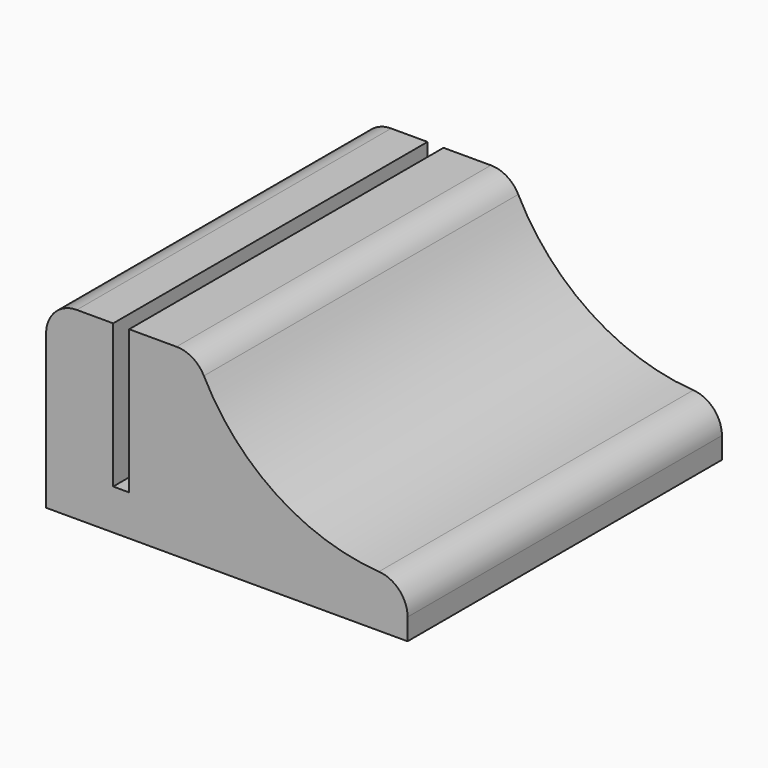
from build123d import *

# Parameters (mm, degrees)
F1_DEPTH = 64
F2_W     = 2.6
F2_H     = 64
F3_DEPTH = 23.4
F4_R     = 5


with BuildPart() as f1:
    # F0 (on Front) → F1 (new body)
    with BuildSketch(Plane.XZ):
        with BuildLine():
            Line((24.4545675814, -5.1988300681), (0, -5.1988300681))
            Line((0, -5.1988300681), (0, -35.1988300681))
            Line((0, -35.1988300681), (58.8754676282, -35.1988300681))
            Line((58.8754676282, -35.1988300681), (58.8754676282, -26.7230011523))
            ThreePointArc((58.8754676282, -26.7230011523), (38.1790837444, -21.5355312603), (24.4545675814, -5.1988300681))
        make_face()
    extrude(amount=F1_DEPTH)

    # F2 (on face) → F3 (cut)
    with BuildSketch(Plane.XY.offset(-5.1988300681)):
        with Locations((12.2272837907, -32)):
            Rectangle(F2_W, F2_H)
    extrude(amount=-F3_DEPTH, mode=Mode.SUBTRACT)

    # F4
    f4_edges = [f1.edges().sort_by_distance(p)[0] for p in [
        (24.454568, -32, -5.19883),
        (0, -32, -5.19883),
        (58.875468, -32, -26.723001),
    ]]
    fillet(f4_edges, radius=F4_R)


solid = f1.part
